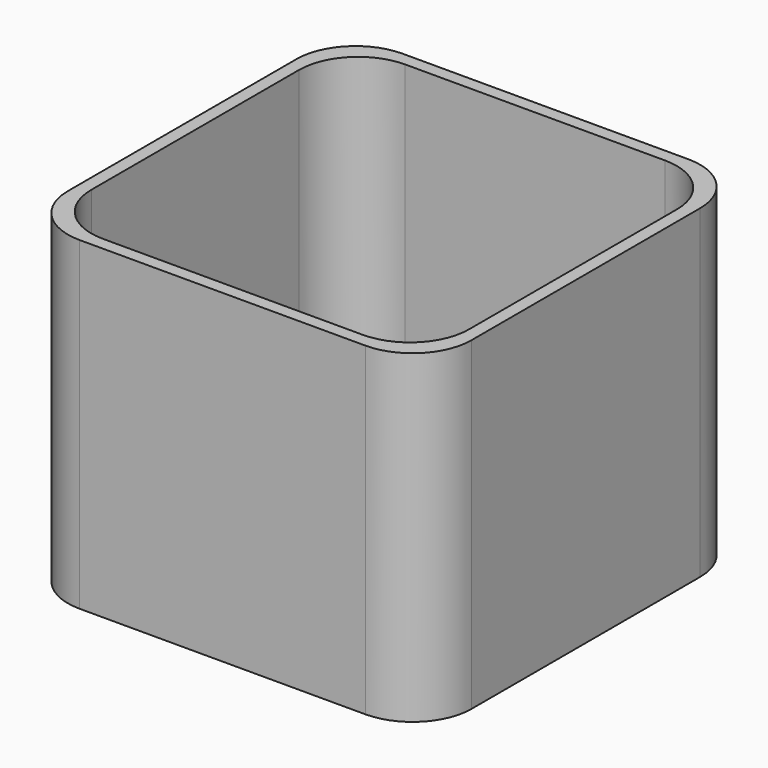
from build123d import *

# Parameters (mm, degrees)
F0_W     = 34.200002
F0_H     = 34.200002
F0_W_2   = 32
F0_H_2   = 32
F1_DEPTH = 27.5
F2_R     = 5


with BuildPart() as f1:
    # F0 (on Top) → F1 (new body)
    with BuildSketch(Plane.XY):
        with Locations((-1, 1)):
            Rectangle(F0_W, F0_H)
        with Locations((-1, 1)):
            Rectangle(F0_W_2, F0_H_2, mode=Mode.SUBTRACT)
    extrude(amount=F1_DEPTH)

    # F2
    f2_edges = [f1.edges().sort_by_distance(p)[0] for p in [
        (16.100001, -16.100001, 13.75),
        (16.100001, 18.100001, 13.75),
        (-18.100001, -16.100001, 13.75),
        (-17, 17, 13.75),
        (-17, -15, 13.75),
        (15, -15, 13.75),
        (15, 17, 13.75),
        (-18.100001, 18.100001, 13.75),
    ]]
    fillet(f2_edges, radius=F2_R)


solid = f1.part
